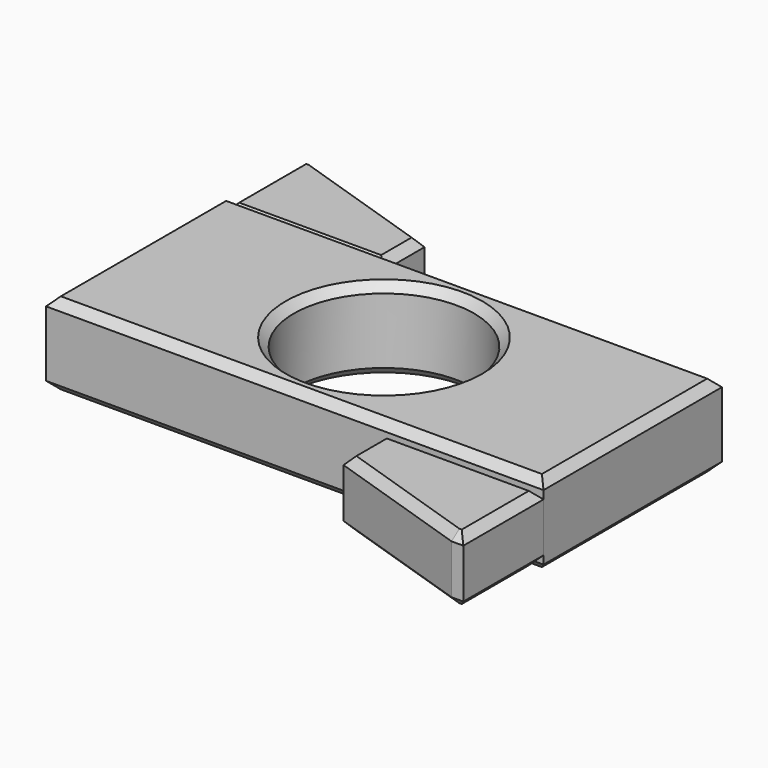
from build123d import *

# Parameters (mm, degrees)
F1_DEPTH  = 4
F0_R      = 11
F2_DEPTH  = 5
F3_SIZE   = 1
F3_2_SIZE = 1


with BuildPart() as f1:
    # F0 (on Top) → F1 (new body, symmetric)
    with BuildSketch(Plane.XY):
        Polygon((30.34697, -25.831118), (30.34697, -13.603815), (11.030585, -13.603815), (11.030585, -19.966755), (28.902927, -25.831118), align=None)
        Polygon((-30.34697, 13.603815), (-11.030585, 13.603815), (-11.030585, 19.966755), (-28.902927, 25.831118), (-30.34697, 25.831118), align=None)
    extrude(amount=F1_DEPTH, both=True)

    # F3#2
    f3_2_edges = [f1.edges().sort_by_distance(p)[0] for p in [
        (30.34697, -19.717466, -4),
        (20.688777, -13.603815, -4),
        (11.030585, -16.785285, -4),
        (19.966756, -22.898937, -4),
        (29.624949, -25.831118, -4),
        (-20.688777, 13.603815, -4),
        (-11.030585, 16.785285, -4),
        (-19.966756, 22.898937, -4),
        (-29.624949, 25.831118, -4),
        (-30.34697, 19.717466, -4),
        (-20.688777, 13.603815, 4),
        (-11.030585, 16.785285, 4),
        (-19.966756, 22.898937, 4),
        (-29.624949, 25.831118, 4),
        (-30.34697, 19.717466, 4),
        (30.34697, -19.717466, 4),
        (20.688777, -13.603815, 4),
        (11.030585, -16.785285, 4),
        (19.966756, -22.898937, 4),
        (29.624949, -25.831118, 4),
    ]]
    chamfer(f3_2_edges, length=F3_2_SIZE)


with BuildPart() as f2:
    # F0 (on Top) → F2 (new body, symmetric)
    with BuildSketch(Plane.XY):
        Polygon((11.030585, -13.603815), (30.34697, -13.603815), (30.34697, 13.603815), (-11.030585, 13.603815), (-30.34697, 13.603815), (-30.34697, -13.603815), align=None)
        Circle(F0_R, mode=Mode.SUBTRACT)
    extrude(amount=F2_DEPTH, both=True)

    # F3
    f3_edges = [f2.edges().sort_by_distance(p)[0] for p in [
        (0, -13.603815, 5),
        (30.34697, 0, 5),
        (0, 13.603815, 5),
        (-30.34697, 0, 5),
        (-11, 0, 5),
        (0, -13.603815, -5),
        (30.34697, 0, -5),
        (0, 13.603815, -5),
        (-30.34697, 0, -5),
        (-11, 0, -5),
    ]]
    chamfer(f3_edges, length=F3_SIZE)


solid = Compound([f1.part, f2.part])
